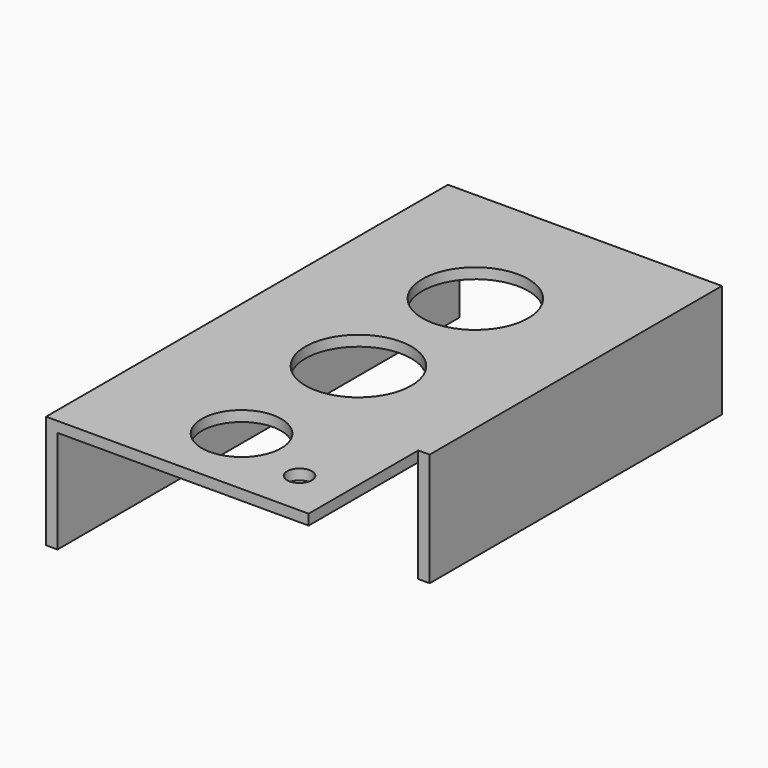
from build123d import *

# Parameters (mm, degrees)
F0_W      = 76.2
F0_H      = 139.7
F1_DEPTH  = 4.7625
F2_W      = 3.175
F2_H      = 139.7
F3_DEPTH  = 28.575
F4_W      = 76.2
F4_H      = 139.7
F5_DEPTH  = 2.921
F6_R      = 11.684
F6_R_2    = 11.049
F7_DEPTH  = 76.2
F6_R_3    = 14.732
F8_DEPTH  = 25.4
F9_R      = 11.43
F10_DEPTH = 25.4
F11_W     = 76.2
F11_H     = 139.7
F12_DEPTH = 4.7625
F13_R     = 14.732
F14_DEPTH = 25.4
F15_W     = 3.175
F15_H     = 38.1
F16_DEPTH = 49.04312
F17_R     = 3.429
F18_DEPTH = 25.4


with BuildPart() as f1:
    # F0 (on Top) → F1 (new body)
    with BuildSketch(Plane.XY):
        Rectangle(F0_W, F0_H)
    extrude(amount=F1_DEPTH)

    # F2 (on face) → F3 (join)
    with BuildSketch(Plane.XY.offset(4.7625)):
        with Locations((-36.5125, 0)):
            Rectangle(F2_W, F2_H)
        with Locations((36.5125, 0)):
            Rectangle(F2_W, F2_H)
    extrude(amount=F3_DEPTH)

    # F4 (on face) → F5 (join)
    with BuildSketch(Plane.XY.offset(33.3375)):
        Rectangle(F4_W, F4_H)
    extrude(amount=F5_DEPTH)

    # F6 (on face) → F7 (cut)
    with BuildSketch(Plane.XY.offset(36.2585)):
        with Locations((0, -8.89)):
            Circle(F6_R)
        with Locations((0, -49.53)):
            Circle(F6_R_2)
    extrude(amount=-F7_DEPTH, mode=Mode.SUBTRACT)

    # F6 (on face) → F8 (cut)
    with BuildSketch(Plane.XY.offset(36.2585)):
        with Locations((0, 31.75)):
            Circle(F6_R_3)
    extrude(amount=-F8_DEPTH, mode=Mode.SUBTRACT)

    # F9 (on face) → F10 (cut)
    with BuildSketch(Plane(origin=(0, 0, 0), x_dir=(1, 0, 0), z_dir=(0, 0, -1))):
        with Locations((0, -34.29)):
            Circle(F9_R)
    extrude(amount=-F10_DEPTH, mode=Mode.SUBTRACT)

    # F11 (on face) → F12 (cut)
    with BuildSketch(Plane(origin=(0, 0, 0), x_dir=(1, 0, 0), z_dir=(0, 0, -1))):
        Rectangle(F11_W, F11_H)
    extrude(amount=-F12_DEPTH, mode=Mode.SUBTRACT)

    # F13 (on face) → F14 (cut)
    with BuildSketch(Plane.XY.offset(36.2585)):
        with Locations((0, -8.89)):
            Circle(F13_R)
    extrude(amount=-F14_DEPTH, mode=Mode.SUBTRACT)

    # F15 (on face) → F16 (cut)
    with BuildSketch(Plane(origin=(0, 0, 4.7625), x_dir=(1, 0, 0), z_dir=(0, 0, -1))):
        with Locations((36.5125, 50.8)):
            Rectangle(F15_W, F15_H)
    extrude(amount=-F16_DEPTH, mode=Mode.SUBTRACT)

    # F17 (on face) → F18 (cut)
    with BuildSketch(Plane.XY.offset(36.2585)):
        with Locations((22.225, -57.15)):
            Circle(F17_R)
    extrude(amount=-F18_DEPTH, mode=Mode.SUBTRACT)


solid = f1.part
